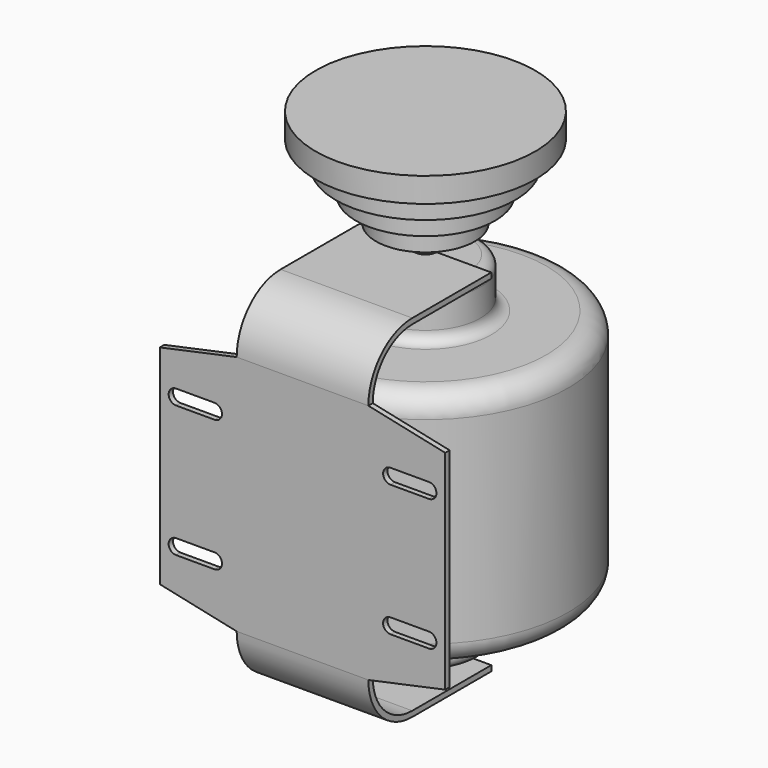
from build123d import *

# Parameters (mm, degrees)
F1_DEPTH = 3.175
F3_DEPTH = 38.1


with BuildPart() as f1:
    # F0 (on Front) → F1 (new body)
    with BuildSketch(Plane.XZ):
        Polygon((-38.1, 69.85), (-82.55, 60.325), (-82.55, -60.325), (-38.1, -69.85), (38.1, -69.85), (82.55, -60.325), (82.55, 60.325), (38.1, 69.85), align=None)
        with BuildLine():
            Line((-50.927, -42.418), (-73.152, -42.418))
            ThreePointArc((-73.152, -42.418), (-77.47, -38.1), (-73.152, -33.782))
            Line((-73.152, -33.782), (-50.927, -33.782))
            ThreePointArc((-50.927, -33.782), (-46.609, -38.1), (-50.927, -42.418))
        make_face(mode=Mode.SUBTRACT)
        with BuildLine():
            ThreePointArc((73.152, -33.782), (77.47, -38.1), (73.152, -42.418))
            Line((73.152, -42.418), (50.927, -42.418))
            ThreePointArc((50.927, -42.418), (46.609, -38.1), (50.927, -33.782))
            Line((50.927, -33.782), (73.152, -33.782))
        make_face(mode=Mode.SUBTRACT)
        with BuildLine():
            ThreePointArc((-73.152, 33.782), (-77.47, 38.1), (-73.152, 42.418))
            Line((-73.152, 42.418), (-50.927, 42.418))
            ThreePointArc((-50.927, 42.418), (-46.609, 38.1), (-50.927, 33.782))
            Line((-50.927, 33.782), (-73.152, 33.782))
        make_face(mode=Mode.SUBTRACT)
        with BuildLine():
            ThreePointArc((50.927, 33.782), (46.609, 38.1), (50.927, 42.418))
            Line((50.927, 42.418), (73.152, 42.418))
            ThreePointArc((73.152, 42.418), (77.47, 38.1), (73.152, 33.782))
            Line((73.152, 33.782), (50.927, 33.782))
        make_face(mode=Mode.SUBTRACT)
    extrude(amount=-F1_DEPTH)

    # F2 (on Right) → F3 (join, symmetric)
    with BuildSketch(Plane.YZ):
        with BuildLine():
            Line((3.175, -69.85), (0, -69.85))
            ThreePointArc((0, -69.85), (9.29936, -92.30064), (31.75, -101.6))
            Line((31.75, -101.6), (88.9, -101.6))
            Line((88.9, -101.6), (88.9, -98.425))
            Line((88.9, -98.425), (31.75, -98.425))
            ThreePointArc((31.75, -98.425), (11.544424, -90.055576), (3.175, -69.85))
        make_face()
        with BuildLine():
            Line((88.9, 98.425), (88.9, 101.6))
            Line((88.9, 101.6), (31.75, 101.6))
            ThreePointArc((31.75, 101.6), (9.29936, 92.30064), (0, 69.85))
            Line((0, 69.85), (3.175, 69.85))
            ThreePointArc((3.175, 69.85), (11.544424, 90.055576), (31.75, 98.425))
            Line((31.75, 98.425), (88.9, 98.425))
        make_face()
    extrude(amount=F3_DEPTH, both=True)

    # F4 (on Right) → F5 (revolve)
    with BuildSketch(Plane.YZ):
        with BuildLine():
            Line((114.3, 98.425), (88.9, 98.425))
            Line((88.9, 98.425), (88.9, -98.425))
            Line((88.9, -98.425), (114.3, -98.425))
            ThreePointArc((114.3, -98.425), (118.790128, -96.565128), (120.65, -92.075))
            Line((120.65, -92.075), (120.65, -76.2))
            ThreePointArc((120.65, -76.2), (122.509872, -71.709872), (127, -69.85))
            Line((127, -69.85), (158.75, -69.85))
            ThreePointArc((158.75, -69.85), (167.730256, -66.130256), (171.45, -57.15))
            Line((171.45, -57.15), (171.45, 57.15))
            ThreePointArc((171.45, 57.15), (167.730256, 66.130256), (158.75, 69.85))
            Line((158.75, 69.85), (127, 69.85))
            ThreePointArc((127, 69.85), (122.509872, 71.709872), (120.65, 76.2))
            Line((120.65, 76.2), (120.65, 92.075))
            ThreePointArc((120.65, 92.075), (118.790128, 96.565128), (114.3, 98.425))
        make_face()
    revolve(axis=Axis((0, 88.9, -4.457965), (0, 0, -1)))

    # F6 (on Right) → F7 (revolve)
    with BuildSketch(Plane.YZ):
        Polygon((60.325, 114.3), (82.55, 114.3), (82.55, 101.6), (88.9, 101.6), (88.9, 171.45), (25.4, 171.45), (25.4, 157.1625), (37.041667, 157.1625), (37.041667, 142.875), (48.683333, 142.875), (48.683333, 128.5875), (60.325, 128.5875), align=None)
    revolve(axis=Axis((0, 88.9, 140.365311), (0, 0, 1)))


solid = f1.part
